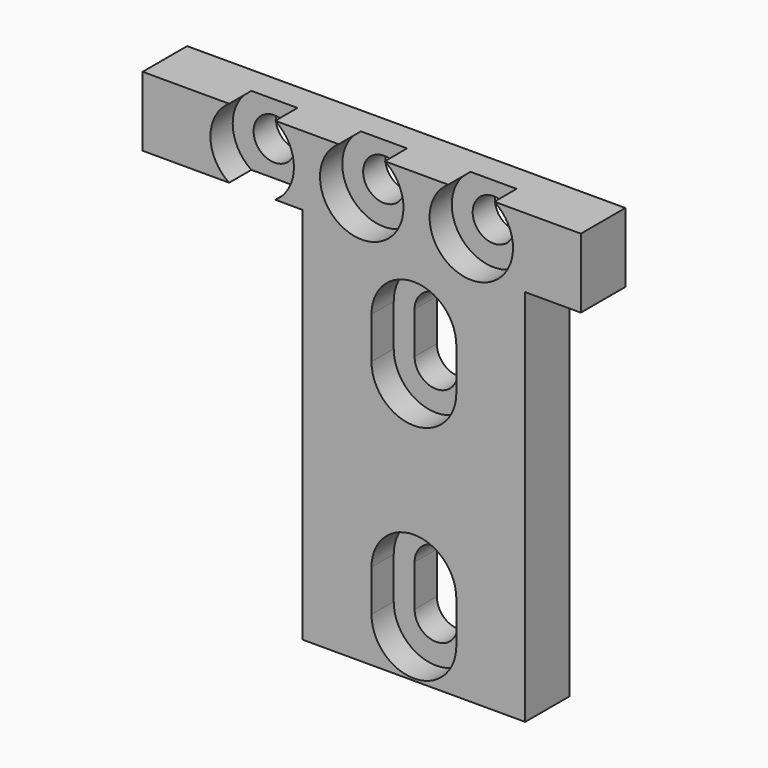
from build123d import *

# Parameters (mm, degrees)
PAD_DEPTH       = 4
SKETCH001_R     = 1.5
POCKET_DEPTH    = 4.001
POCKET001_DEPTH = 4.001
SKETCH003_R     = 3
POCKET002_DEPTH = 2


with BuildPart() as part:
    # Sketch → Pad (new body)
    with BuildSketch(Plane.XZ):
        Polygon((16, 0), (16, -27.2), (0, -27.2), (0, 0), (-11.5, 0), (-11.5, 5), (20, 5), (20, 0), align=None)
    extrude(amount=PAD_DEPTH)

    # Sketch001 (on Face10 of Pad) → Pocket (cut, through all)
    with BuildSketch(Plane.XZ.offset(4)):
        with Locations((-3.625, 2.5)):
            Circle(SKETCH001_R)
        with Locations((4.25, 2.5)):
            Circle(SKETCH001_R)
        with Locations((12.125, 2.5)):
            Circle(SKETCH001_R)
    extrude(amount=-POCKET_DEPTH, mode=Mode.SUBTRACT)

    # Sketch002 (on Face5 of Pocket) → Pocket001 (cut, through all)
    with BuildSketch(Plane.XZ.offset(4)):
        with BuildLine():
            ThreePointArc((9.55, -5), (8, -3.45), (6.45, -5))
            Line((6.45, -5), (6.45, -8))
            ThreePointArc((6.45, -8), (8, -9.55), (9.55, -8))
            Line((9.55, -8), (9.55, -5))
        make_face()
        with BuildLine():
            ThreePointArc((9.55, -21), (8, -19.45), (6.45, -21))
            Line((6.45, -21), (6.45, -24))
            ThreePointArc((6.45, -24), (8, -25.55), (9.55, -24))
            Line((9.55, -24), (9.55, -21))
        make_face()
    extrude(amount=-POCKET001_DEPTH, mode=Mode.SUBTRACT)

    # Sketch003 (on Face5 of Pocket001) → Pocket002 (cut)
    with BuildSketch(Plane.XZ.offset(4)):
        with Locations((-3.625, 2.5)):
            Circle(SKETCH003_R)
        with Locations((4.25, 2.5)):
            Circle(SKETCH003_R)
        with Locations((12.125, 2.5)):
            Circle(SKETCH003_R)
        with BuildLine():
            ThreePointArc((11.05, -5), (8, -1.95), (4.95, -5))
            Line((4.95, -5), (4.95, -8))
            ThreePointArc((4.95, -8), (8, -11.05), (11.05, -8))
            Line((11.05, -8), (11.05, -5))
        make_face()
        with BuildLine():
            ThreePointArc((11.05, -21), (8, -17.95), (4.95, -21))
            Line((4.95, -21), (4.95, -24))
            ThreePointArc((4.95, -24), (8, -27.05), (11.05, -24))
            Line((11.05, -24), (11.05, -21))
        make_face()
    extrude(amount=-POCKET002_DEPTH, mode=Mode.SUBTRACT)


solid = part.part
